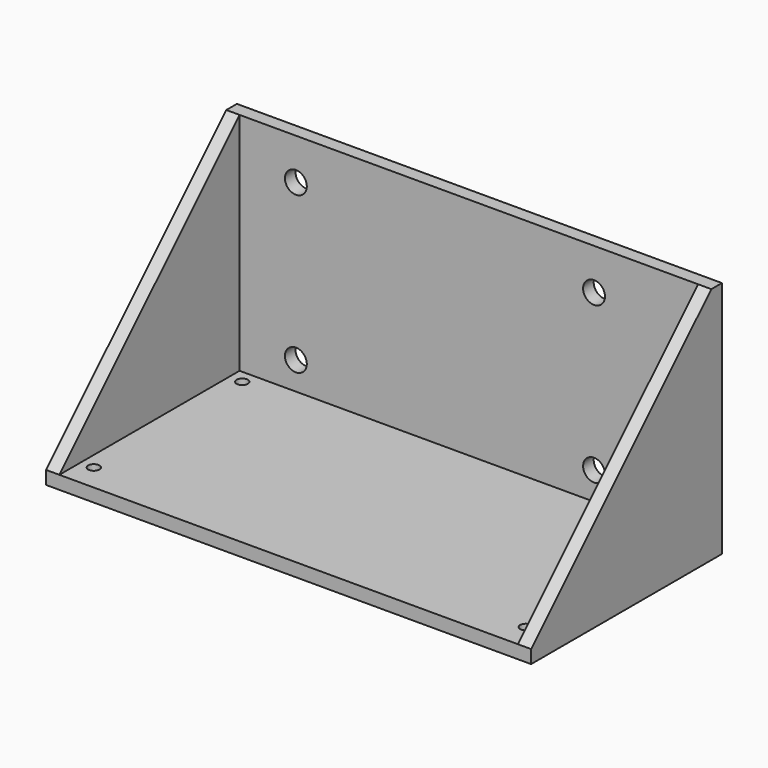
from build123d import *

# Parameters (mm, degrees)
F1_DEPTH  = 366
F2_R      = 8.25
F3_DEPTH  = 10.001
F4_W      = 10
F4_H      = 170
F5_DEPTH  = 170
F8_DEPTH  = 366.001
F9_R      = 4.25
F10_DEPTH = 180.001


with BuildPart() as f1:
    # F0 (on Right) → F1 (new body)
    with BuildSketch(Plane.YZ):
        Polygon((10, -95), (10, 85), (0, 85), (0, -85), (-170, -85), (-170, -95), align=None)
    extrude(amount=F1_DEPTH)

    # F2 (on face) → F3 (cut, through all)
    with BuildSketch(Plane.XZ):
        with Locations((52.5, 54)):
            Circle(F2_R)
        with Locations((277.5, 54)):
            Circle(F2_R)
        with Locations((277.5, -64)):
            Circle(F2_R)
        with Locations((52.5, -64)):
            Circle(F2_R)
    extrude(amount=-F3_DEPTH, mode=Mode.SUBTRACT)

    # F4 (on face) → F5 (join)
    with BuildSketch(Plane.XZ):
        with Locations((5, 0)):
            Rectangle(F4_W, F4_H)
        with Locations((361, 0)):
            Rectangle(F4_W, F4_H)
    extrude(amount=F5_DEPTH)

    # F7 (on face) + F6 (on face) → F8 (cut, through all)
    with BuildSketch(Plane(origin=(0, 0, 0), x_dir=(0, -1, 0), z_dir=(-1, 0, 0))):
        Polygon((170, 85), (0, 85), (170, -85), align=None)
    with BuildSketch(Plane.YZ.offset(366)):
        Polygon((-170, -85), (5, 85), (-170, 85), align=None)
    extrude(amount=-F8_DEPTH, dir=(-1, 0, 0), mode=Mode.SUBTRACT)

    # F9 (on face) → F10 (cut, through all)
    with BuildSketch(Plane(origin=(0, 0, -95), x_dir=(1, 0, 0), z_dir=(0, 0, -1))):
        with Locations((20, 150)):
            Circle(F9_R)
        with Locations((20, 10)):
            Circle(F9_R)
        with Locations((346, 10)):
            Circle(F9_R)
        with Locations((346, 150)):
            Circle(F9_R)
    extrude(amount=-F10_DEPTH, mode=Mode.SUBTRACT)


solid = f1.part
